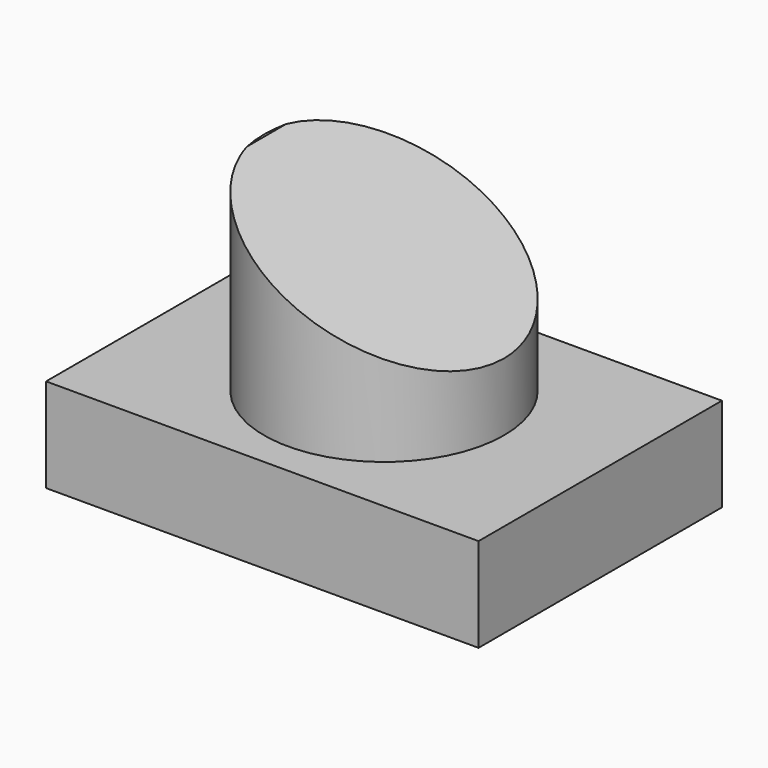
from build123d import *

# Parameters (mm, degrees)
F0_W          = 105.2140146494
F0_H          = 74.0064755082
F0_R          = 22.3889711498
F1_DEPTH      = 22.86
F2_DEPTH      = 59.944
F3_DEPTH      = 25.4
F3_FACE_R     = 22.3889711498
F4_DEPTH      = 25.4
F4_TAPER      = -3
F5_DEPTH      = 25.4
F5_DEPTH_BACK = 25.4
F5_FACE_R     = 22.3889711498
F6_DEPTH      = 25.4
F6_TAPER      = -15
F7_DEPTH      = 59.182
F9_DEPTH      = 33.274


with BuildPart() as f1:
    # F0 (on Top) → F1 (new body)
    with BuildSketch(Plane.XY):
        Rectangle(F0_W, F0_H)
        Circle(F0_R, mode=Mode.SUBTRACT)
        Circle(F0_R)
    extrude(amount=F1_DEPTH)

    # F0 (on Top) → F2 (join)
    with BuildSketch(Plane.XY):
        Circle(F0_R)
    extrude(amount=F2_DEPTH)

    # F3 (cut): a face of the model
    f3_faces = [f1.faces().sort_by_distance(p)[0] for p in [
        (0, 0, 59.944),
    ]]
    extrude(f3_faces, amount=-F3_DEPTH, mode=Mode.SUBTRACT)

    # F3_face (on face) → F4 (join)
    with BuildSketch(Plane.XY.offset(34.544)):
        Circle(F3_FACE_R)
    extrude(amount=F4_DEPTH, taper=F4_TAPER)

    # F5 (cut, two sides): a face of the model
    f5_faces = [f1.faces().sort_by_distance(p)[0] for p in [
        (0, 0, 59.944),
    ]]
    extrude(f5_faces, amount=-F5_DEPTH, mode=Mode.SUBTRACT)
    extrude(f5_faces, amount=F5_DEPTH_BACK, mode=Mode.SUBTRACT)

    # F5_face (on face) → F6 (cut)
    with BuildSketch(Plane.XY.offset(34.544)):
        Circle(F5_FACE_R)
    extrude(amount=-F6_DEPTH, taper=F6_TAPER, mode=Mode.SUBTRACT)

    # F7 (add): a face of the model
    f7_faces = [f1.faces().sort_by_distance(p)[0] for p in [
        (0, 0, 9.144),
    ]]
    extrude(f7_faces, amount=F7_DEPTH)

    # F8 (on Front) → F9 (cut, symmetric)
    with BuildSketch(Plane.XZ):
        Polygon((-21.8193475157, 85.7371985912), (-29.5202936977, 68.7951147556), (38.5047309101, 34.6542596817), (50.8262440562, 89.5876735449), align=None)
    extrude(amount=F9_DEPTH, both=True, mode=Mode.SUBTRACT)


solid = f1.part
